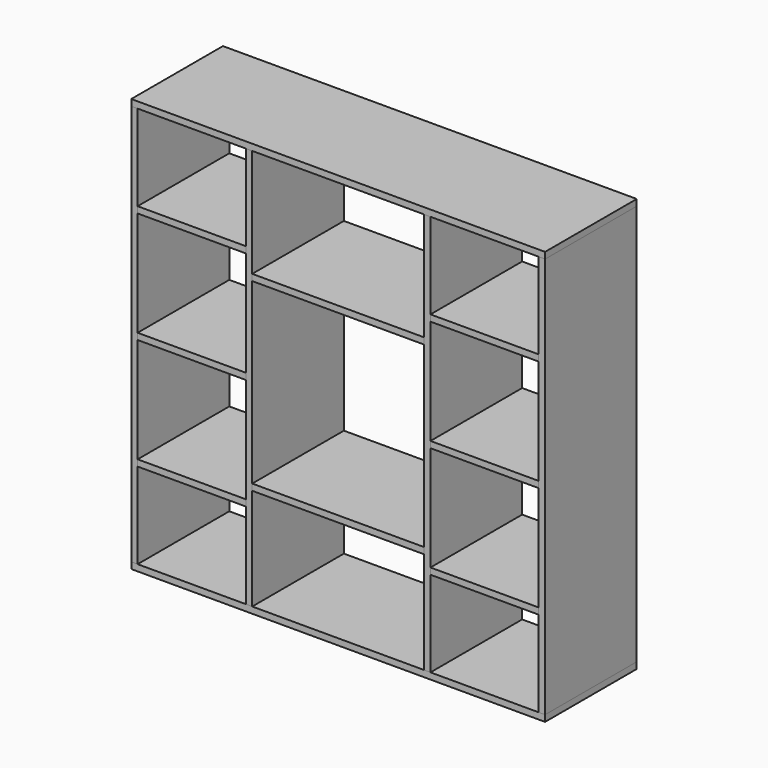
from build123d import *

# Parameters (mm, degrees)
F1_DEPTH = 100
F2_DEPTH = 100
F3_DEPTH = 100
F4_DEPTH = 100
F5_DEPTH = 100
F6_DEPTH = 100
F0_W     = 94.444
F0_H     = 5.556
F7_DEPTH = 100
F0_W_2   = 150


with BuildPart() as f1:
    # F0 (on Front) → F1 (new body)
    with BuildSketch(Plane.XZ):
        Polygon((-180.556, 21.4687940708), (-175, 21.4687940708), (-80.556, 21.4687940708), (-75, 21.4687940708), (75, 21.4687940708), (80.556, 21.4687940708), (175, 21.4687940708), (180.556, 21.4687940708), (180.556, 27.0247940708), (-180.556, 27.0247940708), align=None)
    extrude(amount=F1_DEPTH)


with BuildPart() as f2:
    # F0 (on Front) → F2 (new body)
    with BuildSketch(Plane.XZ):
        Polygon((-175, -328.5312059292), (-180.556, -328.5312059292), (-180.556, -334.0872059292), (180.556, -334.0872059292), (180.556, -328.5312059292), (175, -328.5312059292), (80.556, -328.5312059292), (75, -328.5312059292), (-75, -328.5312059292), (-80.556, -328.5312059292), align=None)
    extrude(amount=F2_DEPTH)


with BuildPart() as f3:
    # F0 (on Front) → F3 (new body)
    with BuildSketch(Plane.XZ):
        Polygon((180.556, -328.5312059292), (180.556, 21.4687940708), (175, 21.4687940708), (175, -53.5312059292), (175, -59.0872059292), (175, -150.7532059292), (175, -156.3092059292), (175, -247.9752059292), (175, -253.5312059292), (175, -328.5312059292), align=None)
    extrude(amount=F3_DEPTH)


with BuildPart() as f4:
    # F0 (on Front) → F4 (new body)
    with BuildSketch(Plane.XZ):
        Polygon((-175, -53.5312059292), (-175, 21.4687940708), (-180.556, 21.4687940708), (-180.556, -328.5312059292), (-175, -328.5312059292), (-175, -253.5312059292), (-175, -247.9752059292), (-175, -156.3092059292), (-175, -150.7532059292), (-175, -59.0872059292), align=None)
    extrude(amount=F4_DEPTH)


with BuildPart() as f5:
    # F0 (on Front) → F5 (new body)
    with BuildSketch(Plane.XZ):
        Polygon((-75, 21.4687940708), (-80.556, 21.4687940708), (-80.556, -53.5312059292), (-80.556, -59.0872059292), (-80.556, -150.7532059292), (-80.556, -156.3092059292), (-80.556, -247.9752059292), (-80.556, -253.5312059292), (-80.556, -328.5312059292), (-75, -328.5312059292), (-75, -239.6432062043), (-75, -234.0872062043), (-75, -78.5312056541), (-75, -72.9752056541), align=None)
    extrude(amount=F5_DEPTH)


with BuildPart() as f6:
    # F0 (on Front) → F6 (new body)
    with BuildSketch(Plane.XZ):
        Polygon((80.556, 21.4687940708), (75, 21.4687940708), (75, -72.9752056541), (75, -78.5312056541), (75, -234.0872062043), (75, -239.6432062043), (75, -328.5312059292), (80.556, -328.5312059292), (80.556, -253.5312059292), (80.556, -247.9752059292), (80.556, -156.3092059292), (80.556, -150.7532059292), (80.556, -59.0872059292), (80.556, -53.5312059292), align=None)
    extrude(amount=F6_DEPTH)


with BuildPart() as f7:
    # F0 (on Front) → F7 (new body)
    with BuildSketch(Plane.XZ):
        with Locations((-127.778, -56.3092059292)):
            Rectangle(F0_W, F0_H)
    extrude(amount=F7_DEPTH)


with BuildPart() as f7b:
    # F0 (on Front) → F7, piece 2 (new body)
    with BuildSketch(Plane.XZ):
        with Locations((-127.778, -153.5312059292)):
            Rectangle(F0_W, F0_H)
    extrude(amount=F7_DEPTH)


with BuildPart() as f7c:
    # F0 (on Front) → F7, piece 3 (new body)
    with BuildSketch(Plane.XZ):
        with Locations((-127.778, -250.7532059292)):
            Rectangle(F0_W, F0_H)
    extrude(amount=F7_DEPTH)


with BuildPart() as f7d:
    # F0 (on Front) → F7, piece 4 (new body)
    with BuildSketch(Plane.XZ):
        with Locations((0, -75.7532056541)):
            Rectangle(F0_W_2, F0_H)
    extrude(amount=F7_DEPTH)


with BuildPart() as f7e:
    # F0 (on Front) → F7, piece 5 (new body)
    with BuildSketch(Plane.XZ):
        with Locations((0, -236.8652062043)):
            Rectangle(F0_W_2, F0_H)
    extrude(amount=F7_DEPTH)


with BuildPart() as f7f:
    # F0 (on Front) → F7, piece 6 (new body)
    with BuildSketch(Plane.XZ):
        with Locations((127.778, -56.3092059292)):
            Rectangle(F0_W, F0_H)
    extrude(amount=F7_DEPTH)


with BuildPart() as f7g:
    # F0 (on Front) → F7, piece 7 (new body)
    with BuildSketch(Plane.XZ):
        with Locations((127.778, -153.5312059292)):
            Rectangle(F0_W, F0_H)
    extrude(amount=F7_DEPTH)


with BuildPart() as f7h:
    # F0 (on Front) → F7, piece 8 (new body)
    with BuildSketch(Plane.XZ):
        with Locations((127.778, -250.7532059292)):
            Rectangle(F0_W, F0_H)
    extrude(amount=F7_DEPTH)


solid = Compound([f1.part, f2.part, f3.part, f4.part, f5.part, f6.part, f7.part, f7b.part, f7c.part, f7d.part, f7e.part, f7f.part, f7g.part, f7h.part])
